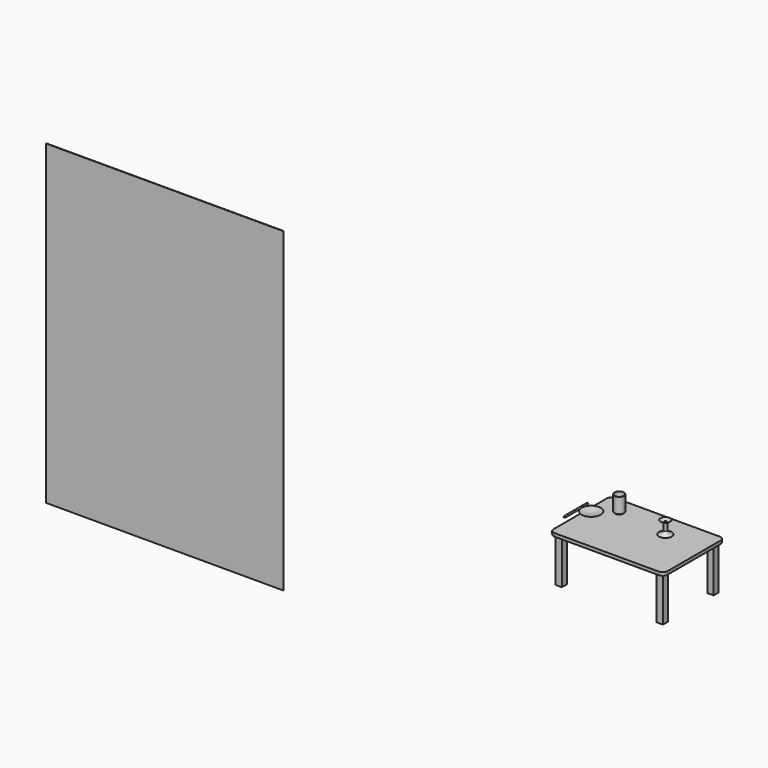
from build123d import *

# Parameters (mm, degrees)
F0_W      = 101.6
F0_H      = 101.6
F1_DEPTH  = 50.8
F2_DEPTH  = 711.2
F3_W      = 2.54
F3_H      = 215.9
F5_SIZE   = 10.16
F8_R      = 12.7
F8_R_2    = 1.27
F9_DEPTH  = 457.2
F10_DEPTH = 25.4
F11_R     = 2.54
F12_W     = 25.4
F12_H     = 115.9687861614
F14_R     = 12.7
F15_DEPTH = 101.6
F16_W     = 3810
F16_H     = 5080
F17_DEPTH = 6.35


with BuildPart() as f1:
    # F0 (on Top) → F1 (new body)
    with BuildSketch(Plane.XY):
        with BuildLine():
            Line((838.2, 609.6), (-838.2, 609.6))
            ThreePointArc((-838.2, 609.6), (-892.0815367264, 587.2815367264), (-914.4, 533.4))
            Line((-914.4, 533.4), (-914.4, -533.4))
            ThreePointArc((-914.4, -533.4), (-892.0815367264, -587.2815367264), (-838.2, -609.6))
            Line((-838.2, -609.6), (838.2, -609.6))
            ThreePointArc((838.2, -609.6), (892.0815367264, -587.2815367264), (914.4, -533.4))
            Line((914.4, -533.4), (914.4, 533.4))
            ThreePointArc((914.4, 533.4), (892.0815367264, 587.2815367264), (838.2, 609.6))
        make_face()
        with Locations((-812.8, -508)):
            Rectangle(F0_W, F0_H, mode=Mode.SUBTRACT)
        with Locations((812.8, -508)):
            Rectangle(F0_W, F0_H, mode=Mode.SUBTRACT)
        with Locations((-812.8, 508)):
            Rectangle(F0_W, F0_H, mode=Mode.SUBTRACT)
        with Locations((812.8, 508)):
            Rectangle(F0_W, F0_H, mode=Mode.SUBTRACT)
        with Locations((-812.8, -508)):
            Rectangle(F0_W, F0_H)
        with Locations((812.8, -508)):
            Rectangle(F0_W, F0_H)
        with Locations((812.8, 508)):
            Rectangle(F0_W, F0_H)
        with Locations((-812.8, 508)):
            Rectangle(F0_W, F0_H)
    extrude(amount=F1_DEPTH)

    # F0 (on Top) → F2 (join)
    with BuildSketch(Plane.XY):
        with Locations((-812.8, -508)):
            Rectangle(F0_W, F0_H)
        with Locations((-812.8, 508)):
            Rectangle(F0_W, F0_H)
        with Locations((812.8, 508)):
            Rectangle(F0_W, F0_H)
        with Locations((812.8, -508)):
            Rectangle(F0_W, F0_H)
    extrude(amount=-F2_DEPTH)


with BuildPart() as f4:
    # F3 (on Front) → F4 (revolve)
    with BuildSketch(Plane.XZ):
        Polygon((-286.3245010376, 316.2632285118), (-286.3245010376, 278.1632285118), (-210.1245010376, 278.1632285118), (-210.1245010376, 316.2632285118), (-212.6645010376, 316.2632285118), align=None)
        with Locations((-211.3945010376, 424.2132285118)):
            Rectangle(F3_W, F3_H)
    revolve(axis=Axis((-286.3245010376, 0, 405.1632285118), (0, 0, 1)))

    # F5
    f5_edges = [f4.edges().sort_by_distance(p)[0] for p in [
        (-362.524501, 0, 278.163229),
    ]]
    chamfer(f5_edges, length=F5_SIZE)


with BuildPart() as f7:
    # F6 (on Front) → F7 (revolve)
    with BuildSketch(Plane.XZ):
        Polygon((-787.6298852921, 117.0304474873), (-736.8298852921, 117.0304474873), (-736.8298852921, 119.5704474873), (-889.2298852921, 144.2540854383), align=None)
    revolve(axis=Axis((-736.8298852921, 0, 187.9355122422), (0, 0, 1)))


with BuildPart() as f9:
    # F8 (on Front) → F9 (new body)
    with BuildSketch(Plane.XZ):
        with Locations((-1161.6646051407, -71.9066634774)):
            Circle(F8_R)
        with Locations((-1161.6646051407, -71.9066634774)):
            Circle(F8_R_2, mode=Mode.SUBTRACT)
        with Locations((-1161.6646051407, -71.9066634774)):
            Circle(F8_R_2)
    extrude(amount=-F9_DEPTH)

    # F8 (on Front) → F10 (join)
    with BuildSketch(Plane.XZ):
        with Locations((-1161.6646051407, -71.9066634774)):
            Circle(F8_R_2)
    extrude(amount=F10_DEPTH)

    # F11
    f11_edges = [f9.edges().sort_by_distance(p)[0] for p in [
        (-1174.364605, 0, -71.906663),
    ]]
    fillet(f11_edges, radius=F11_R)


with BuildPart() as f13:
    # F12 (on Front) → F13 (revolve)
    with BuildSketch(Plane.XZ):
        Polygon((428.1756336873, 376.7006152139), (453.5756336873, 376.7006152139), (453.5756336873, 389.4006152139), (437.0656336873, 389.4006152139), (420.5556336873, 389.4006152139), (420.5556336873, 376.7006152139), align=None)
        with Locations((440.8756336873, 318.7162221332)):
            Rectangle(F12_W, F12_H)
        with BuildLine():
            Line((351.9756336873, 205.7550829578), (453.5756336873, 205.7550829578))
            Line((453.5756336873, 205.7550829578), (453.5756336873, 260.7318290524))
            Line((453.5756336873, 260.7318290524), (428.1756336873, 260.7318290524))
            ThreePointArc((428.1756336873, 260.7318290524), (398.9567006482, 220.9339369722), (351.9756336873, 205.7550829578))
        make_face()
        with BuildLine():
            Line((420.5556336873, 389.4006152139), (437.0656336873, 389.4006152139))
            Line((437.0656336873, 389.4006152139), (375.645477209, 408.9550829578))
            ThreePointArc((375.645477209, 408.9550829578), (396.0643119403, 394.5012700165), (420.5556336873, 389.4006152139))
        make_face()
    revolve(axis=Axis((453.5756336873, 0, 307.3550829578), (0, 0, 1)))

    # F14 (on face) → F15 (cut)
    with BuildSketch(Plane.XY.offset(389.4006152139)):
        with Locations((453.5756336873, 0)):
            Circle(F14_R)
    extrude(amount=-F15_DEPTH, mode=Mode.SUBTRACT)


with BuildPart() as f17:
    # F16 (on Front) → F17 (new body)
    with BuildSketch(Plane.XZ):
        with Locations((-7580.5585479736, -39.7266790259)):
            Rectangle(F16_W, F16_H)
    extrude(amount=F17_DEPTH)


solid = Compound([f1.part, f4.part, f7.part, f9.part, f13.part, f17.part])
